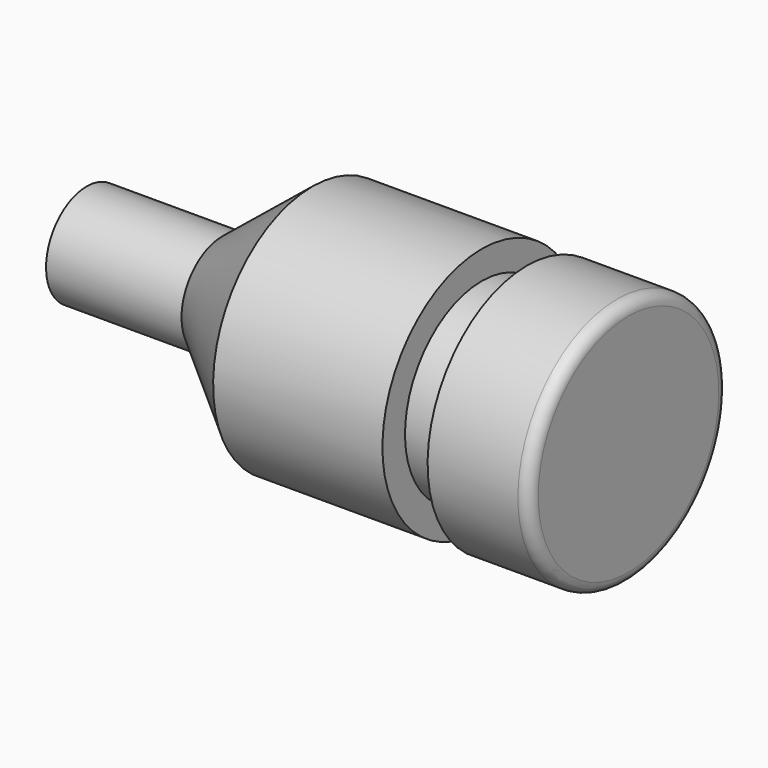
from build123d import *

# Parameters (mm, degrees)
F2_R = 5


with BuildPart() as f1:
    # F0 (on Front) → F1 (revolve)
    with BuildSketch(Plane.XZ):
        Polygon((0, 22.5), (0, 0), (240, 0), (240, 55), (195, 55), (195.524231, 42.5), (175, 42.5), (175, 55), (100, 55), (60, 22.5), align=None)
    revolve(axis=Axis((-48.28571, 0, 0), (-1, 0, 0)))

    # F2
    f2_edges = [f1.edges().sort_by_distance(p)[0] for p in [
        (240, 0, -55),
    ]]
    fillet(f2_edges, radius=F2_R)


solid = f1.part
